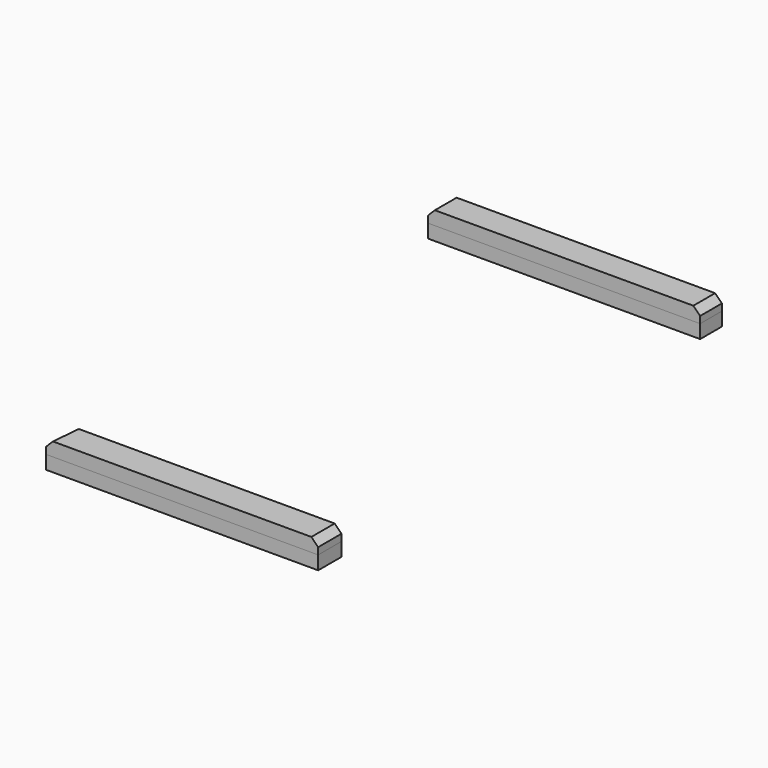
from build123d import *

# Parameters (mm, degrees)
F0_W      = 762
F0_H      = 76.2
F2_DEPTH  = 38.1
F3_DEPTH  = 38.1
F4_W      = 762
F4_H      = 76.2
F5_DEPTH  = 38.1
F7_DEPTH  = 38.1
F8_SIZE   = 19.05
F8_2_SIZE = 19.05


with BuildPart() as f2:
    # F0 (on Top) → F2 (new body)
    with BuildSketch(Plane.XY):
        with Locations((622.052899, 46.100595)):
            Rectangle(F0_W, F0_H)
    extrude(amount=F2_DEPTH)


with BuildPart() as f3:
    # F1 (on Top) → F3 (new body)
    with BuildSketch(Plane.XY):
        Polygon((1034.843492, -1287.297841), (280.205927, -1287.297841), (272.843492, -1368.880719), (1034.843492, -1368.880719), align=None)
    extrude(amount=F3_DEPTH)


with BuildPart() as f5:
    # F4 (on face) → F5 (new body)
    with BuildSketch(Plane.XY.offset(38.1)):
        with Locations((622.052899, 46.100595)):
            Rectangle(F4_W, F4_H)
    extrude(amount=F5_DEPTH)

    # F8
    f8_edges = [f5.edges().sort_by_distance(p)[0] for p in [
        (241.052899, 46.100595, 76.2),
        (1003.052899, 46.100595, 76.2),
    ]]
    chamfer(f8_edges, length=F8_SIZE)


with BuildPart() as f7:
    # F6 (on face) → F7 (new body)
    with BuildSketch(Plane.XY.offset(38.1)):
        Polygon((1034.843492, -1287.297841), (280.205927, -1287.297841), (272.843492, -1368.880719), (1034.843492, -1368.880719), align=None)
    extrude(amount=F7_DEPTH)

    # F8#2
    f8_2_edges = [f7.edges().sort_by_distance(p)[0] for p in [
        (1034.843492, -1328.08928, 76.2),
        (276.52471, -1328.08928, 76.2),
    ]]
    chamfer(f8_2_edges, length=F8_2_SIZE)


solid = Compound([f2.part, f3.part, f5.part, f7.part])
